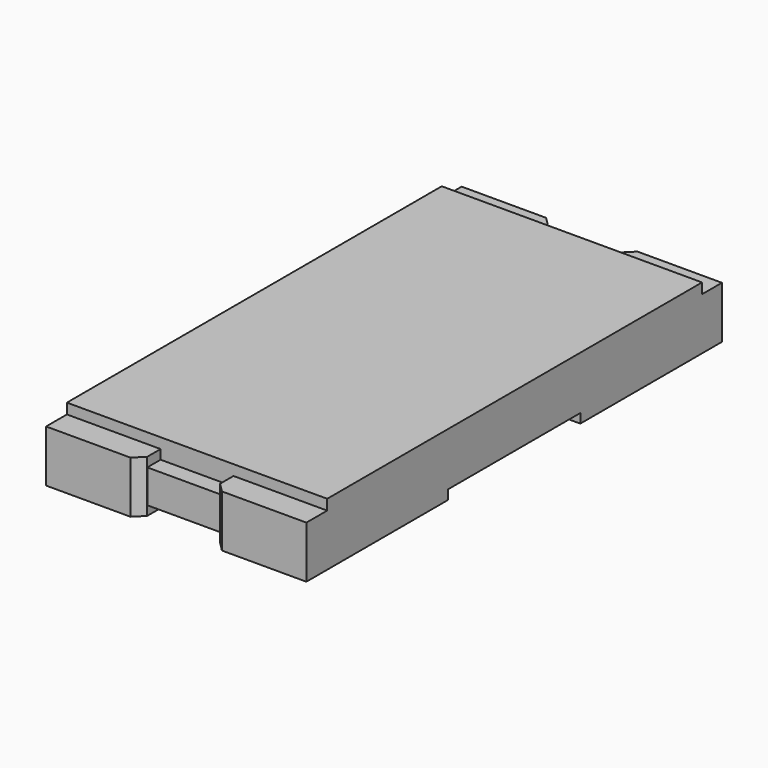
from build123d import *

# Parameters (mm, degrees)
PAD002_DEPTH = 0.9
CHAMFER_SIZE = 0.089
SKETCH001_W  = 4.5
SKETCH001_H  = 0.19
PAD001_DEPTH = 2.5
SKETCH_W     = 4.82
SKETCH_H     = 0.32
PAD_DEPTH    = 2.5


with BuildPart() as body002:
    # Sketch002 → Pad002 (new body)
    with BuildSketch(Plane.YZ):
        Polygon((-2.25, 0.41), (-2.41, 0.41), (-2.41, 0.09), (-0.8, 0.09), (-0.8, 0), (-2.5, 0), (-2.5, 0.5), (-2.25, 0.5), align=None)
    extrude(amount=PAD002_DEPTH)

    # Chamfer
    chamfer_edges = [body002.edges().sort_by_distance(p)[0] for p in [
        (0.9, -2.5, 0.25),
    ]]
    chamfer(chamfer_edges, length=CHAMFER_SIZE)


with BuildPart() as mirror_of_body002:
    # mirror: instance of Body002
    add(body002.part.mirror(Plane(origin=(1.25, -2.25, 0.6), x_dir=(0, -1, 0), z_dir=(1, 0, 0))))


with BuildPart() as fusion:
    # Fusion base: copy of Body002
    add(body002.part)

    # Fusion: union Mirror of Body002
    add(mirror_of_body002.part)


with BuildPart() as mirror_of_fusion:
    # mirror001: instance of Fusion
    add(fusion.part.mirror(Plane(origin=(0.018654, -0.005609, 0.6), x_dir=(1, 0, 0), z_dir=(0, 1, 0))))


with BuildPart() as fusion001:
    # Fusion001 base: copy of Fusion
    add(fusion.part)

    # Fusion001: union Mirror of Fusion
    add(mirror_of_fusion.part)


with BuildPart() as fusion002:
    # Sketch001 → Pad001 (new body)
    with BuildSketch(Plane.YZ):
        with Locations((0, 0.505)):
            Rectangle(SKETCH001_W, SKETCH001_H)
    extrude(amount=PAD001_DEPTH)

    # Fusion002: union Fusion001
    add(fusion001.part)


with BuildPart() as obj1:
    # Sketch → Pad (new body)
    with BuildSketch(Plane.YZ):
        with Locations((0, 0.25)):
            Rectangle(SKETCH_W, SKETCH_H)
    extrude(amount=PAD_DEPTH)

    # Fusion003: union Fusion002
    add(fusion002.part)


solid = obj1.part
